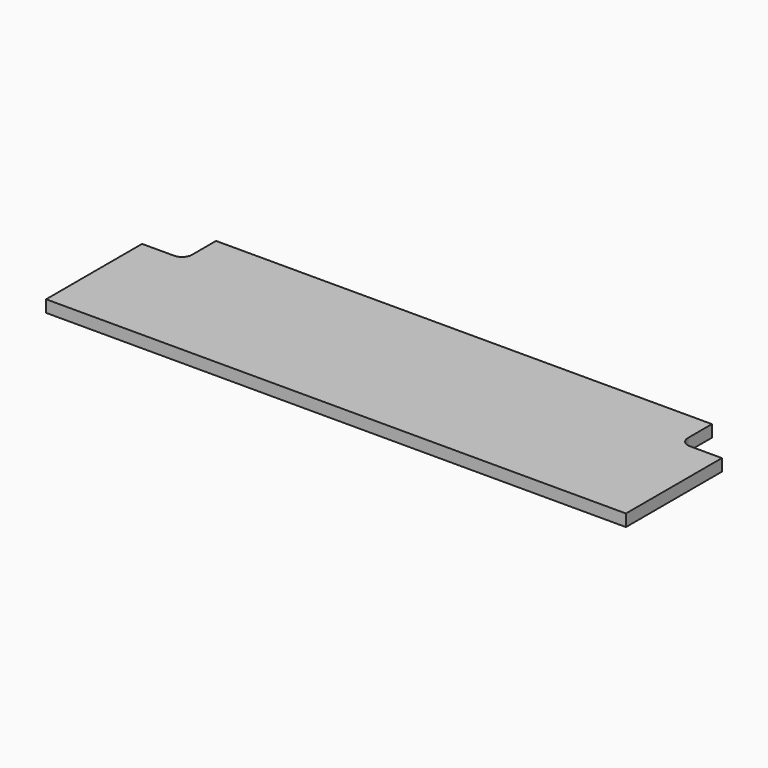
from build123d import *

# Parameters (mm, degrees)
F1_DEPTH = 12


with BuildPart() as f1:
    # F0 (on Top) → F1 (new body)
    with BuildSketch(Plane.XY):
        with BuildLine():
            Line((-290, 0), (0, 0))
            Line((0, 0), (290, 0))
            Line((290, 0), (290, 120))
            Line((290, 120), (258, 120))
            ThreePointArc((258, 120), (250.928932, 122.928932), (248, 130))
            Line((248, 130), (248, 160))
            Line((248, 160), (0, 160))
            Line((0, 160), (-248, 160))
            Line((-248, 160), (-248, 130))
            ThreePointArc((-248, 130), (-250.928932, 122.928932), (-258, 120))
            Line((-258, 120), (-290, 120))
            Line((-290, 120), (-290, 0))
        make_face()
    extrude(amount=F1_DEPTH)


solid = f1.part
